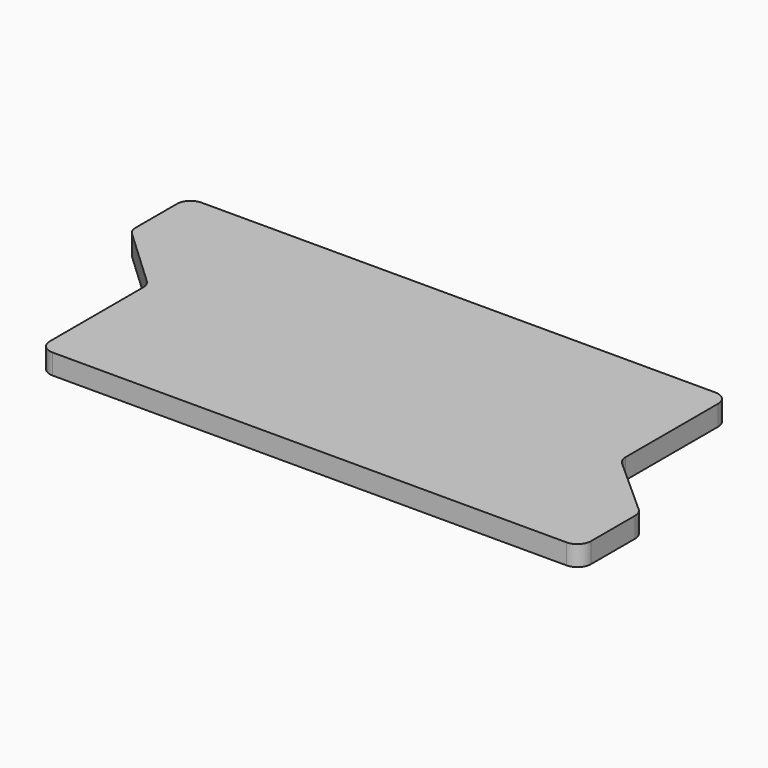
from build123d import *

# Parameters (mm, degrees)
F1_DEPTH = 3
F2_R     = 2


with BuildPart() as f1:
    # F0 (on Top) → F1 (new body)
    with BuildSketch(Plane.XY):
        Polygon((-8.146908, 7.150882), (-18.146908, 7.150882), (-18.146908, -3.36134), (-8.146908, -12.728843), align=None)
        Polygon((61.853092, 7.150882), (-8.146908, 7.150882), (-8.146908, -12.728843), (-8.146908, -32.849118), (61.853092, -32.849118), (61.853092, -12.849118), align=None)
        Polygon((71.853092, -21.79648), (61.853092, -12.849118), (61.853092, -32.849118), (71.853092, -32.849118), align=None)
    extrude(amount=F1_DEPTH)

    # F2
    f2_edges = [f1.edges().sort_by_distance(p)[0] for p in [
        (-18.146908, 7.150882, 1.5),
        (-18.146908, -3.36134, 1.5),
        (-8.146908, -12.728843, 1.5),
        (-8.146908, -32.849118, 1.5),
        (71.853092, -32.849118, 1.5),
        (71.853092, -21.79648, 1.5),
        (61.853092, -12.849118, 1.5),
        (61.853092, 7.150882, 1.5),
    ]]
    fillet(f2_edges, radius=F2_R)


solid = f1.part
